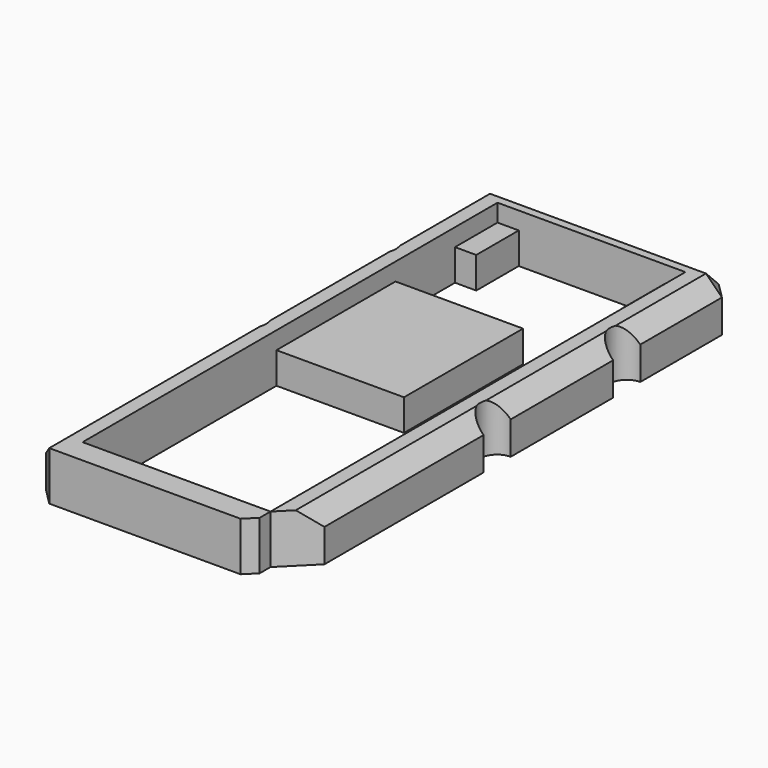
from build123d import *

# Parameters (mm, degrees)
SKETCH_W        = 23.32
SKETCH_H        = 53.34
PAD_DEPTH       = 4.6
SKETCH001_W     = 17.68
SKETCH001_H     = 48.8
POCKET_DEPTH    = 1.65
POCKET001_DEPTH = 3
SKETCH003_R     = 1.6
POCKET002_DEPTH = 5
CHAMFER_SIZE    = 1.5
POCKET003_DEPTH = 5
CHAMFER001_SIZE = 1


with BuildPart() as part:
    # Sketch → Pad (new body)
    with BuildSketch(Plane.XY):
        with Locations((11.66, 26.67)):
            Rectangle(SKETCH_W, SKETCH_H)
    extrude(amount=PAD_DEPTH)

    # Sketch001 (on Face6 of Pad) → Pocket (cut)
    with BuildSketch(Plane.XY.offset(4.6)):
        with Locations((11.66, 26.67)):
            Rectangle(SKETCH001_W, SKETCH001_H)
    extrude(amount=-POCKET_DEPTH, mode=Mode.SUBTRACT)

    # Sketch002 (on Face11 of Pocket) → Pocket001 (cut)
    with BuildSketch(Plane.XY.offset(2.95)):
        Polygon((2.82, 4.27), (20.5, 4.27), (20.5, 46.07), (18.5, 46.07), (18.5, 51.07), (4.82, 51.07), (4.82, 46.07), (2.82, 46.07), (2.82, 39.07), (14.82, 39.07), (14.82, 25.07), (2.82, 25.07), align=None)
    extrude(amount=-POCKET001_DEPTH, mode=Mode.SUBTRACT)

    # Sketch003 (on Face5 of Pocket001) → Pocket002 (cut)
    with BuildSketch(Plane.XY.offset(4.6)):
        with Locations((23.32, 40.64)):
            Circle(SKETCH003_R)
        with Locations((23.32, 25.4)):
            Circle(SKETCH003_R)
        with Locations((0, 40.64)):
            Circle(SKETCH003_R)
        with Locations((0, 25.4)):
            Circle(SKETCH003_R)
    extrude(amount=-POCKET002_DEPTH, mode=Mode.SUBTRACT)

    # Chamfer
    chamfer_edges = [part.edges().sort_by_distance(p)[0] for p in [
        (23.32, 47.79, 4.6),
        (11.66, 53.34, 4.6),
        (0, 47.79, 4.6),
        (0, 33.02, 4.6),
        (23.32, 33.02, 4.6),
        (23.32, 11.9, 4.6),
        (0, 11.9, 4.6),
        (23.32, 0, 2.3),
        (0, 0, 2.3),
        (23.32, 53.34, 2.3),
        (0, 53.34, 2.3),
    ]]
    chamfer(chamfer_edges, length=CHAMFER_SIZE)

    # Sketch004 (on Face35 of Chamfer) → Pocket003 (cut)
    with BuildSketch(Plane.XY.offset(4.6)):
        Polygon((24.23, 6), (24.23, 0), (20.5, 0), (20.5, 2.27), align=None)
    extrude(amount=-POCKET003_DEPTH, mode=Mode.SUBTRACT)

    # Chamfer001
    chamfer001_edges = [part.edges().sort_by_distance(p)[0] for p in [
        (20.5, 0, 2.3),
    ]]
    chamfer(chamfer001_edges, length=CHAMFER001_SIZE)


solid = part.part
